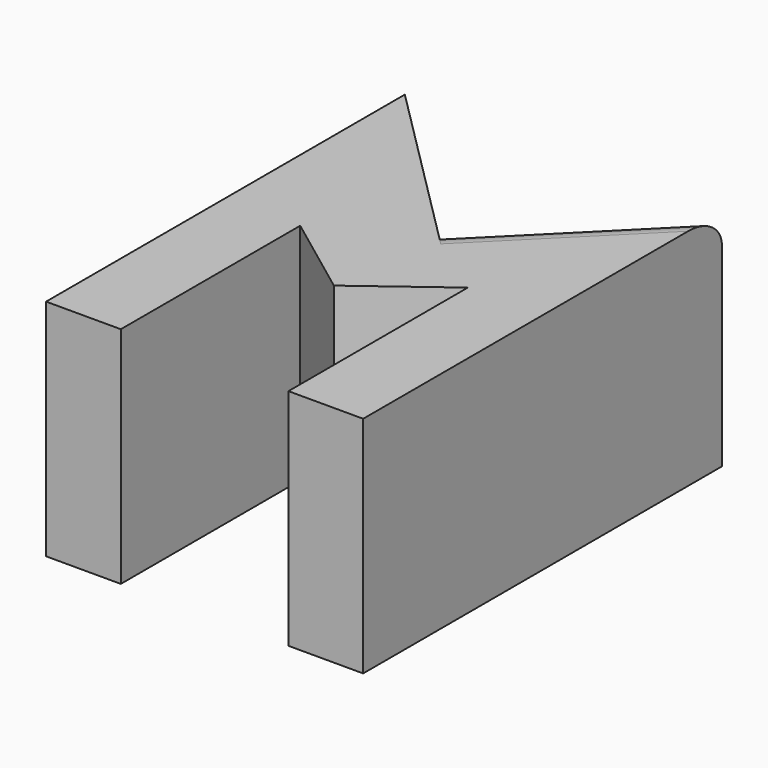
from build123d import *

# Parameters (mm, degrees)
F1_DEPTH = 15
F2_R     = 2


with BuildPart() as f1:
    # F0 (on Top) → F1 (new body)
    with BuildSketch(Plane.XY):
        Polygon((0, 30), (0, 0), (5, 0), (5, 15), (10.606602, 10.808817), (16.213203, 15), (16.213203, 0), (21.213203, 0), (21.213203, 30), (10.606602, 19.393398), align=None)
    extrude(amount=F1_DEPTH)

    # F2
    f2_edges = [f1.edges().sort_by_distance(p)[0] for p in [
        (15.909903, 24.696699, 15),
    ]]
    fillet(f2_edges, radius=F2_R)


solid = f1.part
